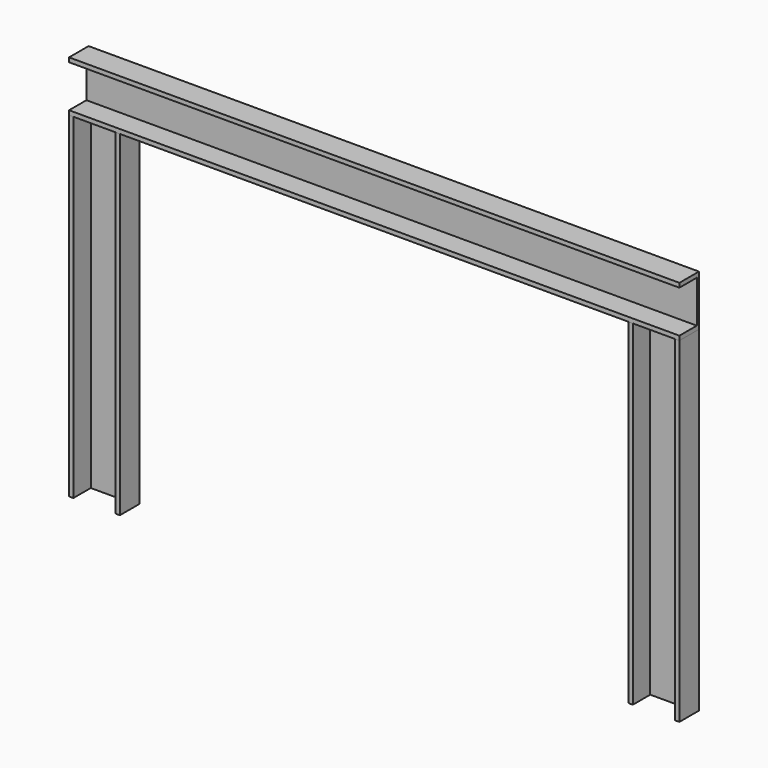
from build123d import *

# Parameters (mm, degrees)
F2_DEPTH = 660
F5_DEPTH = 1200


with BuildPart() as f2:
    # F1 (on Top) → F2 (new body)
    with BuildSketch(Plane.XY):
        Polygon((-1058.5, -24), (-1050, -24), (-1050, 24), (-1150, 24), (-1150, -24), (-1141.5, -24), (-1141.5, 18.7), (-1058.5, 18.7), align=None)
    extrude(amount=F2_DEPTH)


with BuildPart() as f2b:
    # F0 (on Top) → F2, piece 2 (new body)
    with BuildSketch(Plane.XY):
        Polygon((41.5, -24), (50, -24), (50, 24), (-50, 24), (-50, -24), (-41.5, -24), (-41.5, 18.7), (41.5, 18.7), align=None)
    extrude(amount=F2_DEPTH)


with BuildPart() as f5:
    # F4 (on offset) → F5 (new body, through all)
    with BuildSketch(Plane(origin=(-1150, 0, 0), x_dir=(0, -1, 0), z_dir=(-1, 0, 0))):
        Polygon((-24, 760), (-24, 660), (24, 660), (24, 668.5), (-18.7, 668.5), (-18.7, 751.5), (24, 751.5), (24, 760), align=None)
    extrude(amount=-F5_DEPTH)


solid = Compound([f2.part, f2b.part, f5.part])
